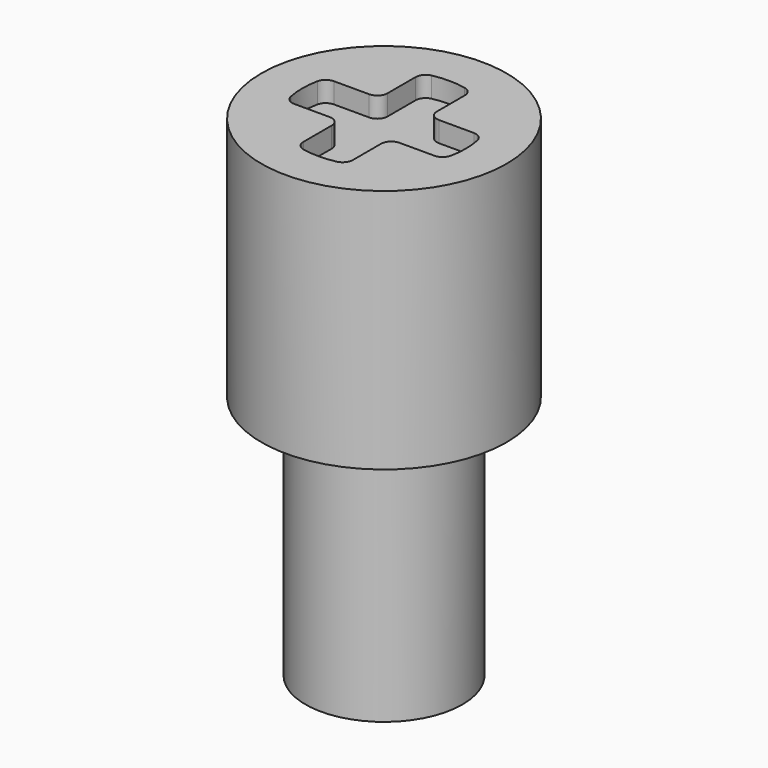
from build123d import *

# Parameters (mm, degrees)
F0_R     = 3.048
F1_DEPTH = 4.7625
F2_R     = 4.7625
F3_DEPTH = 9.525
F5_DEPTH = 0.79375
F6_R     = 0.396875


with BuildPart() as f1:
    # F0 (on Top) → F1 (new body, symmetric)
    with BuildSketch(Plane.XY):
        Circle(F0_R)
    extrude(amount=F1_DEPTH, both=True)

    # F2 (on face) → F3 (join)
    with BuildSketch(Plane.XY.offset(4.7625)):
        Circle(F2_R)
    extrude(amount=F3_DEPTH)

    # F4 (on face) → F5 (cut)
    with BuildSketch(Plane.XY.offset(14.2875)):
        with BuildLine():
            ThreePointArc((0.9652, 3.0247337007), (0.0066610182, 3.1749930127), (-0.9525, 3.0287569645))
            Line((-0.9525, 3.0287569645), (-0.9525, 0.9652))
            Line((-0.9525, 0.9652), (-3.0247337007, 0.9652))
            ThreePointArc((-3.0247337007, 0.9652), (-3.1749930127, 0.0066610182), (-3.0287569645, -0.9525))
            Line((-3.0287569645, -0.9525), (-0.9525, -0.9525))
            Line((-0.9525, -0.9525), (-0.9525, -3.0287569645))
            ThreePointArc((-0.9525, -3.0287569645), (0.0066610182, -3.1749930127), (0.9652, -3.0247337007))
            Line((0.9652, -3.0247337007), (0.9652, -0.9525))
            Line((0.9652, -0.9525), (3.0287569645, -0.9525))
            ThreePointArc((3.0287569645, -0.9525), (3.1749930127, 0.0066610182), (3.0247337007, 0.9652))
            Line((3.0247337007, 0.9652), (0.9652, 0.9652))
            Line((0.9652, 0.9652), (0.9652, 3.0247337007))
        make_face()
    extrude(amount=-F5_DEPTH, mode=Mode.SUBTRACT)

    # F6
    f6_edges = [f1.edges().sort_by_distance(p)[0] for p in [
        (-0.9525, 0.9652, 13.890625),
        (0.9652, 0.9652, 13.890625),
        (0.9652, -0.9525, 13.890625),
        (-0.9525, -0.9525, 13.890625),
        (-3.028757, -0.9525, 13.890625),
        (-3.024734, 0.9652, 13.890625),
        (0.9652, -3.024734, 13.890625),
        (3.028757, -0.9525, 13.890625),
        (3.024734, 0.9652, 13.890625),
        (0.9652, 3.024734, 13.890625),
        (-0.9525, 3.028757, 13.890625),
        (-0.9525, -3.028757, 13.890625),
    ]]
    fillet(f6_edges, radius=F6_R)


solid = f1.part
